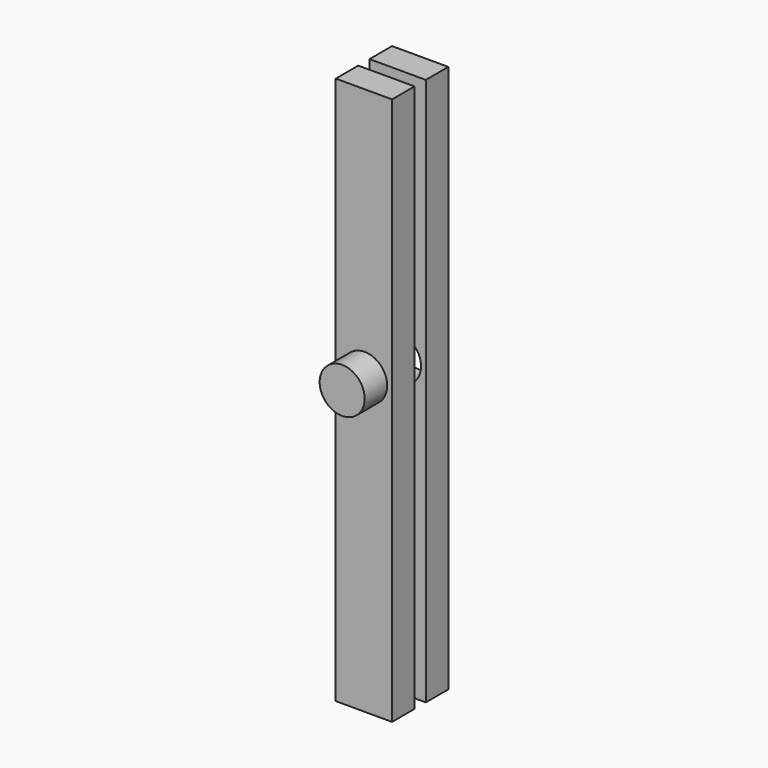
from build123d import *

# Parameters (mm, degrees)
F0_W     = 25.4
F0_H     = 247.304687
F0_R     = 10.16
F1_DEPTH = 12.7
F2_DEPTH = 25.4
F3_DEPTH = 19.05
F4_DEPTH = 6.35


with BuildPart() as f1:
    # F0 (on Front) → F1 (new body)
    with BuildSketch(Plane.XZ):
        with Locations((12.7, -23.54492)):
            Rectangle(F0_W, F0_H)
        with Locations((13.056295, -14.342986)):
            Circle(F0_R, mode=Mode.SUBTRACT)
    extrude(amount=F1_DEPTH)

    # F0 (on Front) → F2 (join)
    with BuildSketch(Plane.XZ):
        with Locations((13.056295, -14.342986)):
            Circle(F0_R)
    extrude(amount=F2_DEPTH)


with BuildPart() as f3:
    # F0 (on Front) → F3 (new body)
    with BuildSketch(Plane.XZ):
        with Locations((12.7, -23.54492)):
            Rectangle(F0_W, F0_H)
        with Locations((13.056295, -14.342986)):
            Circle(F0_R, mode=Mode.SUBTRACT)
    extrude(amount=-F3_DEPTH)

    # F0 (on Front) → F4 (cut)
    with BuildSketch(Plane.XZ):
        with Locations((12.7, -23.54492)):
            Rectangle(F0_W, F0_H)
        with Locations((13.056295, -14.342986)):
            Circle(F0_R, mode=Mode.SUBTRACT)
    extrude(amount=-F4_DEPTH, mode=Mode.SUBTRACT)


solid = Compound([f1.part, f3.part])
